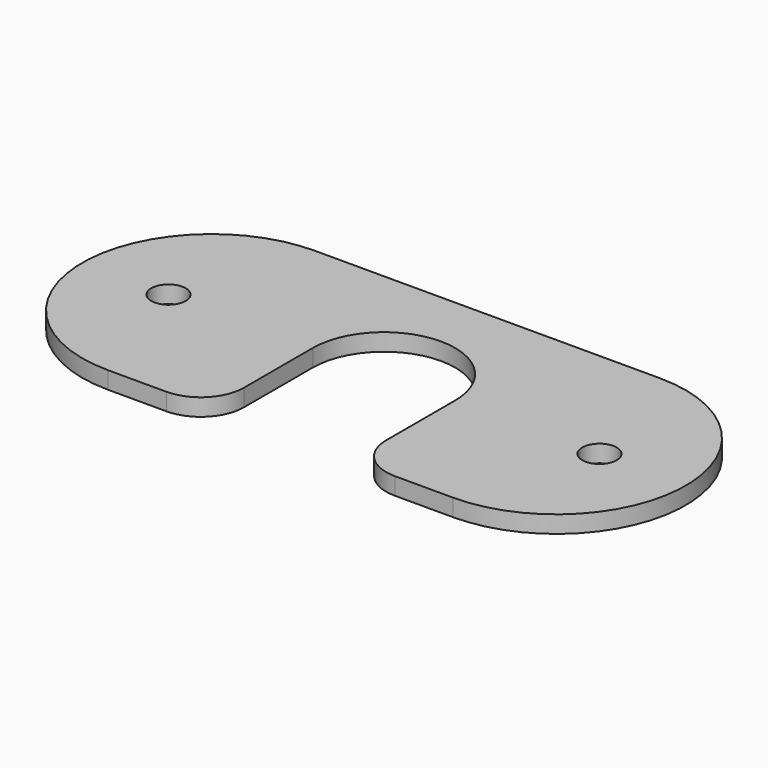
from build123d import *

# Parameters (mm, degrees)
F0_R     = 2
F1_DEPTH = 2
F2_R     = 5


with BuildPart() as f1:
    # F0 (on Top) → F1 (new body)
    with BuildSketch(Plane.XY):
        with BuildLine():
            ThreePointArc((-8.25, 0), (0, 8.25), (8.25, 0))
            Line((8.25, 0), (8.25, -15))
            Line((8.25, -15), (20, -15))
            ThreePointArc((20, -15), (35, 0), (20, 15))
            Line((20, 15), (-20, 15))
            ThreePointArc((-20, 15), (-35, 0), (-20, -15))
            Line((-20, -15), (-8.25, -15))
            Line((-8.25, -15), (-8.25, 0))
        make_face()
        with Locations((-25, 0)):
            Circle(F0_R, mode=Mode.SUBTRACT)
        with Locations((25, 0)):
            Circle(F0_R, mode=Mode.SUBTRACT)
    extrude(amount=F1_DEPTH)

    # F2
    f2_edges = [f1.edges().sort_by_distance(p)[0] for p in [
        (-8.25, -15, 1),
        (8.25, -15, 1),
    ]]
    fillet(f2_edges, radius=F2_R)


solid = f1.part
